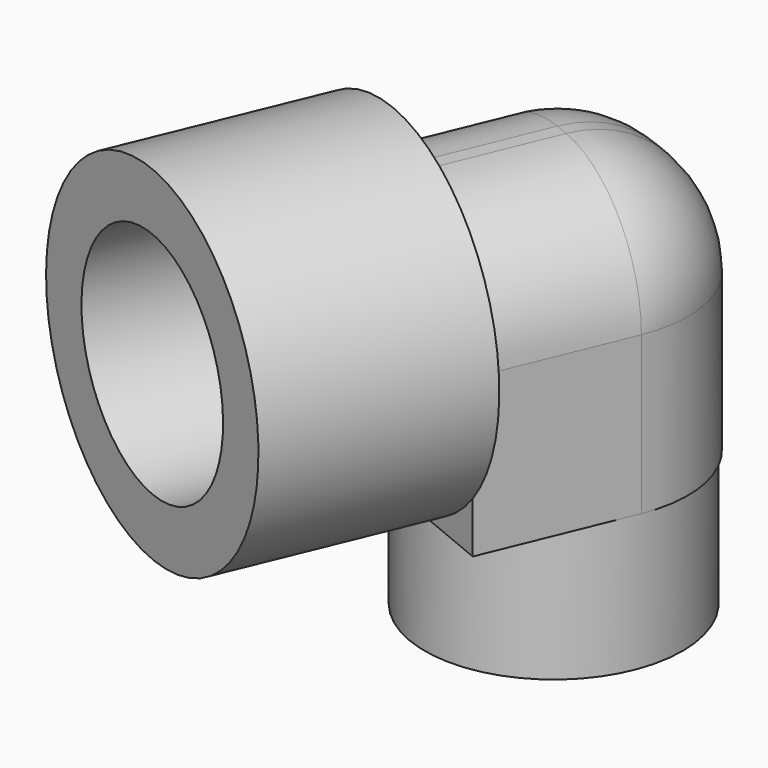
from build123d import *

# Parameters (mm, degrees)
CYLINDER021_R               = 5
CYLINDER021_DEPTH           = 25
CYLINDER022_R               = 5
CYLINDER022_DEPTH           = 15
CYLINDER020_R               = 9
CYLINDER020_DEPTH           = 9.5
BOX007_W                    = 19
BOX007_H                    = 18
BOX007_DEPTH                = 19.5
FILLET_R                    = 8.5
CYLINDER024_R               = 5
CYLINDER024_DEPTH           = 2.5
CYLINDER019_R               = 12
CYLINDER019_DEPTH           = 2.5
CYLINDER027_R               = 8
CYLINDER027_DEPTH           = 12.5
CYLINDER026_R               = 12
CYLINDER026_DEPTH           = 12.5
CYLINDER026_PLACEMENT_ANGLE = 1
FUSION025_PLACEMENT_ANGLE   = 90
FUSION032_PLACEMENT_ANGLE   = 112.48


with BuildPart() as obj1_hole:
    # Cylinder021 → Cylinder021 (new body)
    with BuildSketch(Plane.XY):
        Circle(CYLINDER021_R)
    extrude(amount=CYLINDER021_DEPTH)


with BuildPart() as obj2:
    # Cylinder022 → Cylinder022 (new body)
    with BuildSketch(Plane(origin=(-5, 0, 21), x_dir=(0, 0, -1), z_dir=(1, 0, 0))):
        Circle(CYLINDER022_R)
    extrude(amount=CYLINDER022_DEPTH)

    # Fusion016: union obj1_hole
    add(obj1_hole.part)


with BuildPart() as obj1:
    # Cylinder020 → Cylinder020 (new body)
    with BuildSketch(Plane.XY):
        Circle(CYLINDER020_R)
    extrude(amount=CYLINDER020_DEPTH)


with BuildPart() as obj3:
    # Box007 → Box007 (new body)
    with BuildSketch(Plane(origin=(-9, -9, 9.5), x_dir=(1, 0, 0), z_dir=(0, 0, 1))):
        with Locations((9.5, 9)):
            Rectangle(BOX007_W, BOX007_H)
    extrude(amount=BOX007_DEPTH)

    # Fillet
    fillet_edges = [obj3.edges().sort_by_distance(p)[0] for p in [
        (-9, -9, 19.25),
        (-9, 0, 29),
        (-9, 9, 19.25),
        (0.5, -9, 29),
        (0.5, 9, 29),
    ]]
    fillet(fillet_edges, radius=FILLET_R)

    # Fusion018: union obj1
    add(obj1.part)

    # Cut013: cut obj2
    add(obj2.part, mode=Mode.SUBTRACT)


with BuildPart() as largeplughole:
    # Cylinder024 → Cylinder024 (new body)
    with BuildSketch(Plane.XY):
        Circle(CYLINDER024_R)
    extrude(amount=CYLINDER024_DEPTH)


with BuildPart() as largeplugbase001:
    # Cylinder019 → Cylinder019 (new body)
    with BuildSketch(Plane.XY):
        Circle(CYLINDER019_R)
    extrude(amount=CYLINDER019_DEPTH)

    # Cut008: cut LargePlugHole
    add(largeplughole.part, mode=Mode.SUBTRACT)


with BuildPart() as largeplugwallhole:
    # Cylinder027 → Cylinder027 (new body)
    with BuildSketch(Plane.XY.offset(2.5)):
        Circle(CYLINDER027_R)
    extrude(amount=CYLINDER027_DEPTH)


with BuildPart() as obj4:
    # Cylinder026 → Cylinder026 (new body)
    with BuildSketch(Plane.XY):
        Circle(CYLINDER026_R)
    extrude(amount=CYLINDER026_DEPTH)


with BuildPart() as obj4_1:
    # Cylinder026 placement: moved
    add(obj4.part.moved(Location((0, 0, 2.5))).rotate(Axis((0, 0, 2.5), (0, 0, 1)), CYLINDER026_PLACEMENT_ANGLE))

    # Cut007: cut LargePlugWallHole
    add(largeplugwallhole.part, mode=Mode.SUBTRACT)

    # Fusion025: union LargePlugBase001
    add(largeplugbase001.part)


with BuildPart() as obj4_2:
    # Fusion025 placement: moved
    add(obj4_1.part.moved(Location((10, 0, 21))).rotate(Axis((10, 0, 21), (0, 1, 0)), FUSION025_PLACEMENT_ANGLE))

    # Fusion032: union obj3
    add(obj3.part)


with BuildPart() as obj4_3:
    # Fusion032 placement: moved
    add(obj4_2.part.moved(Location((78, -251.25, 94))).rotate(Axis((78, -251.25, 94), (0, 0, -1)), FUSION032_PLACEMENT_ANGLE))


solid = obj4_3.part
